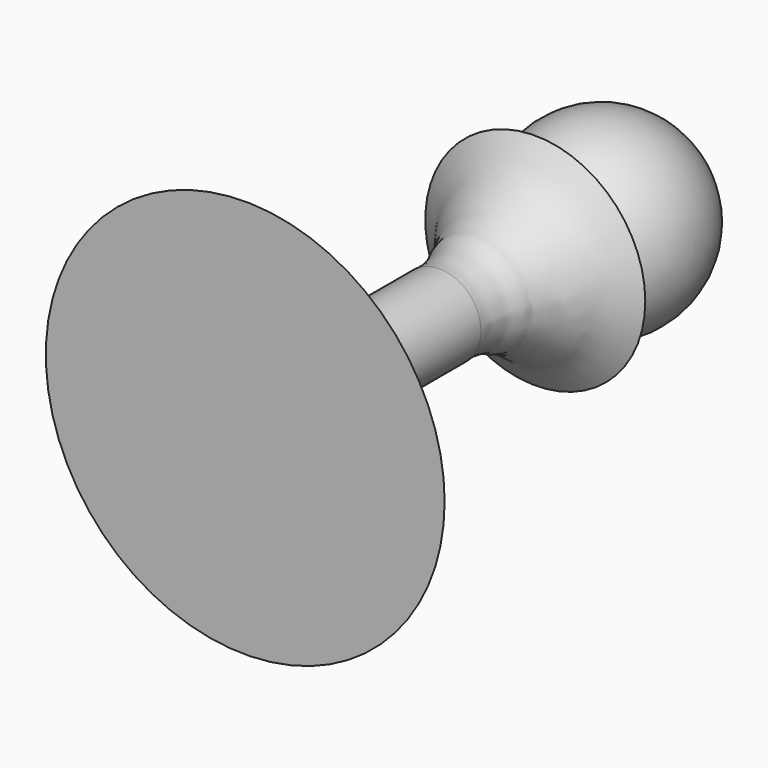
from build123d import *

# Parameters (mm, degrees)
F0_W = 20
F0_H = 2


with BuildPart() as f1:
    # F0 (on Top) → F1 (revolve)
    with BuildSketch(Plane.XY):
        with BuildLine():
            Line((14.8962167758, 52.6757461224), (6.1653433317, 52.6757461224))
            ThreePointArc((6.1653433317, 52.6757461224), (12.366714586, 67.041770631), (0, 76.6284299013))
            Line((0, 76.6284299013), (0, 63.8586182957))
            Line((0, 63.8586182957), (0, 52.6757461224))
            Line((0, 52.6757461224), (0, 36.4794617582))
            Line((0, 36.4794617582), (0, 22.6817322038))
            Line((0, 22.6817322038), (0, 7.6817322038))
            Line((0, 7.6817322038), (20, 7.6817322038))
            add(Edge.make_bspline(
                [(5.598490632, 22.6817322038), (5.536275452, 21.9344240339), (5.4136511742, 20.4615017566), (6.36978848, 18.5513152258), (8.4779249719, 16.4565879055), (10.5699340449, 14.6707226111), (13.3450760972, 12.5812477655), (15.2253255202, 10.8974439536), (17.2674205792, 9.3661727976), (19.3955072623, 8.1968717576), (19.8409609476, 7.817262875), (20, 7.6817322038)],
                knots=[0, 0, 0, 0, 0.1070616786, 0.2110153988, 0.3349029996, 0.457600196, 0.5921614902, 0.7079655491, 0.8256838018, 0.9377643874, 1, 1, 1, 1], degree=3))
            Line((5.598490632, 22.6817322038), (5.598490632, 36.4794617582))
            add(Edge.make_bspline(
                [(14.8962167758, 52.6757461224), (13.5876102088, 51.7853849624), (11.4226166248, 50.3123477276), (10.5873511557, 48.7417679615), (8.3451687157, 46.2630892098), (7.5595844624, 44.3597399543), (6.8823110239, 43.4473585795), (6.8258703962, 42.3460680505), (5.9300128481, 41.0297200022), (5.7374392265, 39.4730130238), (5.4879283734, 38.3131289524), (5.5590240303, 37.1340125399), (5.598490632, 36.4794617582)],
                knots=[0, 0, 0, 0, 0.1500811989, 0.2482983357, 0.381233321, 0.487515639, 0.5626685747, 0.6373381245, 0.7293649813, 0.8205325546, 0.9003740806, 1, 1, 1, 1], degree=3))
        make_face()
        with Locations((10, 6.6817322038)):
            Rectangle(F0_W, F0_H)
        with BuildLine():
            Line((24, 5.6817322038), (20, 5.6817322038))
            Line((20, 5.6817322038), (0, 5.6817322038))
            Line((0, 5.6817322038), (0, 3.5851075173))
            Line((0, 3.5851075173), (27, 3.5851075173))
            add(Edge.make_bspline(
                [(24, 5.6817322038), (24.163856326, 5.4098139941), (24.3991431002, 5.0017421335), (25.2004991382, 4.3388526961), (25.5674094847, 4.2288069513), (26.2014635644, 3.9018237178), (26.7397855643, 3.7296087243), (27, 3.5851075173)],
                knots=[0, 0, 0, 0, 0.2133552079, 0.4424655668, 0.5881451192, 0.7803240784, 1, 1, 1, 1], degree=3))
        make_face()
        with BuildLine():
            Line((14.8962167758, 52.6757461224), (6.1653433317, 52.6757461224))
            ThreePointArc((6.1653433317, 52.6757461224), (12.366714586, 67.041770631), (0, 76.6284299013))
            Line((0, 76.6284299013), (0, 63.8586182957))
            Line((0, 63.8586182957), (0, 52.6757461224))
            Line((0, 52.6757461224), (0, 36.4794617582))
            Line((0, 36.4794617582), (0, 22.6817322038))
            Line((0, 22.6817322038), (0, 7.6817322038))
            Line((0, 7.6817322038), (20, 7.6817322038))
            add(Edge.make_bspline(
                [(5.598490632, 22.6817322038), (5.536275452, 21.9344240339), (5.4136511742, 20.4615017566), (6.36978848, 18.5513152258), (8.4779249719, 16.4565879055), (10.5699340449, 14.6707226111), (13.3450760972, 12.5812477655), (15.2253255202, 10.8974439536), (17.2674205792, 9.3661727976), (19.3955072623, 8.1968717576), (19.8409609476, 7.817262875), (20, 7.6817322038)],
                knots=[0, 0, 0, 0, 0.1070616786, 0.2110153988, 0.3349029996, 0.457600196, 0.5921614902, 0.7079655491, 0.8256838018, 0.9377643874, 1, 1, 1, 1], degree=3))
            Line((5.598490632, 22.6817322038), (5.598490632, 36.4794617582))
            add(Edge.make_bspline(
                [(14.8962167758, 52.6757461224), (13.5876102088, 51.7853849624), (11.4226166248, 50.3123477276), (10.5873511557, 48.7417679615), (8.3451687157, 46.2630892098), (7.5595844624, 44.3597399543), (6.8823110239, 43.4473585795), (6.8258703962, 42.3460680505), (5.9300128481, 41.0297200022), (5.7374392265, 39.4730130238), (5.4879283734, 38.3131289524), (5.5590240303, 37.1340125399), (5.598490632, 36.4794617582)],
                knots=[0, 0, 0, 0, 0.1500811989, 0.2482983357, 0.381233321, 0.487515639, 0.5626685747, 0.6373381245, 0.7293649813, 0.8205325546, 0.9003740806, 1, 1, 1, 1], degree=3))
        make_face()
    revolve(axis=Axis((0, 70.2435240985, 0), (0, 1, 0)))


solid = f1.part
